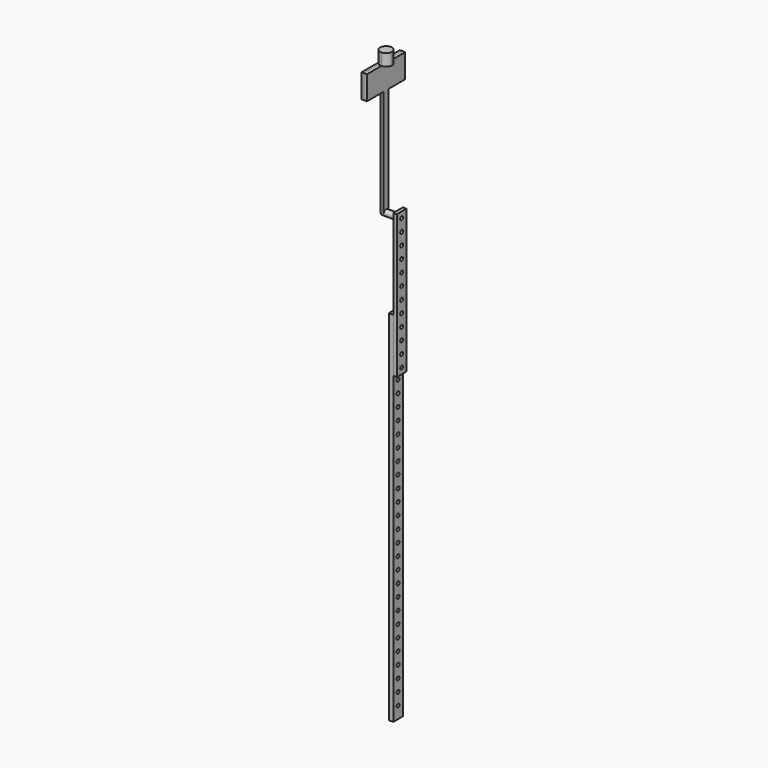
from build123d import *

# Parameters (mm, degrees)
F0_W      = 25.4
F0_H      = 762
F0_R      = 3.81
F1_DEPTH  = 9.525
F2_R      = 3.81
F3_DEPTH  = 7.62
F4_R      = 6.35
F4_R_2    = 3.81
F5_DEPTH  = 25.4
F6_R      = 3.81
F6_W      = 12.7
F6_H      = 25.4
F7_DEPTH  = 6.35
F8_W      = 6.35
F8_H      = 38.1
F9_DEPTH  = 5.08
F11_DEPTH = 25.4


with BuildPart() as f1:
    # F0 (on Right) → F1 (new body)
    with BuildSketch(Plane.YZ):
        with Locations((12.7, 381)):
            Rectangle(F0_W, F0_H)
        with Locations((12.7, 25.4)):
            Circle(F0_R, mode=Mode.SUBTRACT)
        with Locations((12.7, 50.8)):
            Circle(F0_R, mode=Mode.SUBTRACT)
        with Locations((12.7, 76.2)):
            Circle(F0_R, mode=Mode.SUBTRACT)
        with Locations((12.7, 101.6)):
            Circle(F0_R, mode=Mode.SUBTRACT)
        with Locations((12.7, 127)):
            Circle(F0_R, mode=Mode.SUBTRACT)
        with Locations((12.7, 152.4)):
            Circle(F0_R, mode=Mode.SUBTRACT)
        with Locations((12.7, 177.8)):
            Circle(F0_R, mode=Mode.SUBTRACT)
        with Locations((12.7, 203.2)):
            Circle(F0_R, mode=Mode.SUBTRACT)
        with Locations((12.7, 228.6)):
            Circle(F0_R, mode=Mode.SUBTRACT)
        with Locations((12.7, 254)):
            Circle(F0_R, mode=Mode.SUBTRACT)
        with Locations((12.7, 279.4)):
            Circle(F0_R, mode=Mode.SUBTRACT)
        with Locations((12.7, 304.8)):
            Circle(F0_R, mode=Mode.SUBTRACT)
        with Locations((12.7, 330.2)):
            Circle(F0_R, mode=Mode.SUBTRACT)
        with Locations((12.7, 355.6)):
            Circle(F0_R, mode=Mode.SUBTRACT)
        with Locations((12.7, 381)):
            Circle(F0_R, mode=Mode.SUBTRACT)
        with Locations((12.7, 406.4)):
            Circle(F0_R, mode=Mode.SUBTRACT)
        with Locations((12.7, 431.8)):
            Circle(F0_R, mode=Mode.SUBTRACT)
        with Locations((12.7, 457.2)):
            Circle(F0_R, mode=Mode.SUBTRACT)
        with Locations((12.7, 482.6)):
            Circle(F0_R, mode=Mode.SUBTRACT)
        with Locations((12.7, 508)):
            Circle(F0_R, mode=Mode.SUBTRACT)
        with Locations((12.7, 533.4)):
            Circle(F0_R, mode=Mode.SUBTRACT)
        with Locations((12.7, 558.8)):
            Circle(F0_R, mode=Mode.SUBTRACT)
        with Locations((12.7, 584.2)):
            Circle(F0_R, mode=Mode.SUBTRACT)
        with Locations((12.7, 609.6)):
            Circle(F0_R, mode=Mode.SUBTRACT)
        with Locations((12.7, 635)):
            Circle(F0_R, mode=Mode.SUBTRACT)
        with Locations((12.7, 660.4)):
            Circle(F0_R, mode=Mode.SUBTRACT)
        with Locations((12.7, 685.8)):
            Circle(F0_R, mode=Mode.SUBTRACT)
        with Locations((12.7, 711.2)):
            Circle(F0_R, mode=Mode.SUBTRACT)
        with Locations((12.7, 736.6)):
            Circle(F0_R, mode=Mode.SUBTRACT)
    extrude(amount=F1_DEPTH)


with BuildPart() as f3:
    # F2 (on face) → F3 (new body)
    with BuildSketch(Plane.YZ.offset(9.525)):
        with BuildLine():
            Line((25.4, 952.5), (0, 952.5))
            Line((0, 952.5), (0, 762))
            Line((0, 762), (8.89, 762))
            ThreePointArc((8.89, 762), (12.7, 765.81), (16.51, 762))
            Line((16.51, 762), (25.4, 762))
            Line((25.4, 762), (25.4, 952.5))
        make_face()
        with Locations((12.7, 787.4)):
            Circle(F2_R, mode=Mode.SUBTRACT)
        with Locations((12.7, 812.8)):
            Circle(F2_R, mode=Mode.SUBTRACT)
        with Locations((12.7, 838.2)):
            Circle(F2_R, mode=Mode.SUBTRACT)
        with Locations((12.7, 863.6)):
            Circle(F2_R, mode=Mode.SUBTRACT)
        with Locations((12.7, 889)):
            Circle(F2_R, mode=Mode.SUBTRACT)
        with Locations((12.7, 914.4)):
            Circle(F2_R, mode=Mode.SUBTRACT)
        with Locations((12.7, 939.8)):
            Circle(F2_R, mode=Mode.SUBTRACT)
        with BuildLine():
            Line((8.89, 762), (0, 762))
            Line((0, 762), (0, 647.7))
            Line((0, 647.7), (25.4, 647.7))
            Line((25.4, 647.7), (25.4, 762))
            Line((25.4, 762), (16.51, 762))
            ThreePointArc((16.51, 762), (12.7, 758.19), (8.89, 762))
        make_face()
        with Locations((12.7, 660.4)):
            Circle(F2_R, mode=Mode.SUBTRACT)
        with Locations((12.7, 685.8)):
            Circle(F2_R, mode=Mode.SUBTRACT)
        with Locations((12.7, 711.2)):
            Circle(F2_R, mode=Mode.SUBTRACT)
        with Locations((12.7, 736.6)):
            Circle(F2_R, mode=Mode.SUBTRACT)
    extrude(amount=F3_DEPTH)

    # F4 (on face) → F5 (join)
    with BuildSketch(Plane(origin=(9.525, 0, 0), x_dir=(0, -1, 0), z_dir=(-1, 0, 0))):
        with Locations((-12.7, 939.8)):
            Circle(F4_R)
        with Locations((-12.7, 939.8)):
            Circle(F4_R_2, mode=Mode.SUBTRACT)
    extrude(amount=F5_DEPTH)


with BuildPart() as f7:
    # F6 (on face) → F7 (new body)
    with BuildSketch(Plane(origin=(-15.875, 0, 0), x_dir=(0, -1, 0), z_dir=(-1, 0, 0))):
        with BuildLine():
            ThreePointArc((-6.35, 939.8), (-12.7, 946.15), (-19.05, 939.8))
            ThreePointArc((-19.05, 939.8), (-17.1901280605, 935.3098719395), (-12.7, 933.45))
            ThreePointArc((-12.7, 933.45), (-8.2098719395, 935.3098719395), (-6.35, 939.8))
        make_face()
        with Locations((-12.7, 939.8)):
            Circle(F6_R, mode=Mode.SUBTRACT)
        Polygon((-19.05, 1168.4), (-19.05, 1193.8), (-6.35, 1193.8), (-6.35, 1168.4), (38.1, 1168.4), (38.1, 1219.2), (-63.5, 1219.2), (-63.5, 1168.4), align=None)
        with Locations((-12.7, 1181.1)):
            Rectangle(F6_W, F6_H)
        with BuildLine():
            Line((-6.35, 1168.4), (-19.05, 1168.4))
            Line((-19.05, 1168.4), (-19.05, 939.8))
            ThreePointArc((-19.05, 939.8), (-12.7, 946.15), (-6.35, 939.8))
            Line((-6.35, 939.8), (-6.35, 1168.4))
        make_face()
    extrude(amount=F7_DEPTH)


with BuildPart() as f9:
    # F8 (on face) → F9 (new body)
    with BuildSketch(Plane(origin=(-22.225, 0, 0), x_dir=(0, -1, 0), z_dir=(-1, 0, 0))):
        Polygon((-4.3641853422, 1206.5), (-12.7, 1219.2), (-21.0358146578, 1206.5), (-15.875, 1206.5), (-9.525, 1206.5), align=None)
        with Locations((-12.7, 1187.45)):
            Rectangle(F8_W, F8_H)
    extrude(amount=F9_DEPTH)


with BuildPart() as f9b:
    # F8 (on face) → F9, piece 2 (new body)
    with BuildSketch(Plane(origin=(-22.225, 0, 0), x_dir=(0, -1, 0), z_dir=(-1, 0, 0))):
        with BuildLine():
            ThreePointArc((-63.5, 1168.4), (-48.6210244843, 1204.3210244843), (-12.7, 1219.2))
            Line((-12.7, 1219.2), (-63.5, 1219.2))
            Line((-63.5, 1219.2), (-63.5, 1168.4))
        make_face()
    extrude(amount=F9_DEPTH)


with BuildPart() as f9c:
    # F8 (on face) → F9, piece 3 (new body)
    with BuildSketch(Plane(origin=(-22.225, 0, 0), x_dir=(0, -1, 0), z_dir=(-1, 0, 0))):
        with BuildLine():
            ThreePointArc((-12.7, 1219.2), (23.2210244843, 1204.3210244843), (38.1, 1168.4))
            Line((38.1, 1168.4), (38.1, 1219.2))
            Line((38.1, 1219.2), (-12.7, 1219.2))
        make_face()
    extrude(amount=F9_DEPTH)


with BuildPart() as f11:
    # F10 (on face) → F11 (new body)
    with BuildSketch(Plane.XY.offset(1219.2)):
        with BuildLine():
            ThreePointArc((-15.875, 0), (-6.8947438789, 3.7197438789), (-3.175, 12.7))
            ThreePointArc((-3.175, 12.7), (-6.8947438789, 21.6802561211), (-15.875, 25.4))
            Line((-15.875, 25.4), (-15.875, 0))
        make_face()
        with BuildLine():
            Line((-15.875, 0), (-15.875, 25.4))
            ThreePointArc((-15.875, 25.4), (-19.1620018728, 24.9672579939), (-22.225, 23.6985226281))
            Line((-22.225, 23.6985226281), (-22.225, 1.7014773719))
            ThreePointArc((-22.225, 1.7014773719), (-19.1620018728, 0.4327420061), (-15.875, 0))
        make_face()
        with BuildLine():
            Line((-22.225, 1.7014773719), (-22.225, 23.6985226281))
            ThreePointArc((-22.225, 23.6985226281), (-28.575, 12.7), (-22.225, 1.7014773719))
        make_face()
    extrude(amount=F11_DEPTH)


solid = Compound([f1.part, f3.part, f7.part, f9.part, f9b.part, f9c.part, f11.part])
